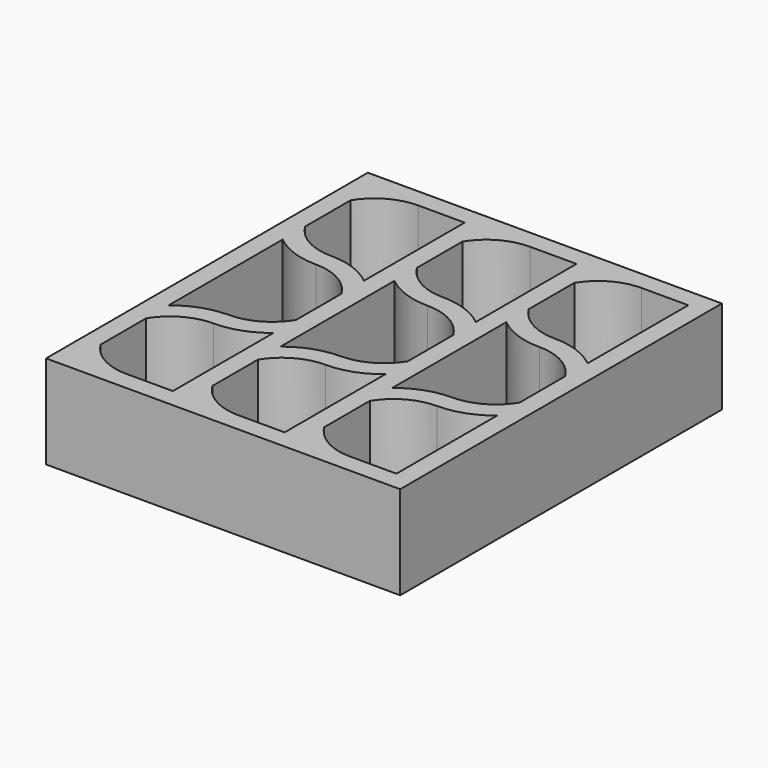
from build123d import *

# Parameters (mm, degrees)
F0_W     = 94.75
F0_H     = 107.602
F1_DEPTH = 25


with BuildPart() as f1:
    # F0 (on Top) → F1 (new body)
    with BuildSketch(Plane.XY):
        Rectangle(F0_W, F0_H)
        with BuildLine():
            Line((-17.458333, -48.801), (-29.916667, -48.801))
            ThreePointArc((-29.916667, -48.801), (-37.05864, -46.934949), (-42.375, -41.813791))
            Line((-42.375, -41.813791), (-42.375, -26.587542))
            ThreePointArc((-42.375, -26.587542), (-37.05864, -21.466384), (-29.916667, -19.600333))
            ThreePointArc((-29.916667, -19.600333), (-23.298881, -18.449336), (-17.458333, -15.131523))
            Line((-17.458333, -15.131523), (-17.458333, -48.801))
        make_face(mode=Mode.SUBTRACT)
        with BuildLine():
            Line((12.458333, -15.131523), (12.458333, -48.801))
            Line((12.458333, -48.801), (0, -48.801))
            ThreePointArc((0, -48.801), (-7.141974, -46.934949), (-12.458333, -41.813791))
            Line((-12.458333, -41.813791), (-12.458333, -26.587542))
            ThreePointArc((-12.458333, -26.587542), (-7.141974, -21.466384), (0, -19.600333))
            ThreePointArc((0, -19.600333), (6.617785, -18.449336), (12.458333, -15.131523))
        make_face(mode=Mode.SUBTRACT)
        with BuildLine():
            Line((42.375, -15.131523), (42.375, -48.801))
            Line((42.375, -48.801), (29.916667, -48.801))
            ThreePointArc((29.916667, -48.801), (22.774693, -46.934949), (17.458333, -41.813791))
            Line((17.458333, -41.813791), (17.458333, -26.587542))
            ThreePointArc((17.458333, -26.587542), (22.774693, -21.466384), (29.916667, -19.600333))
            ThreePointArc((29.916667, -19.600333), (36.534452, -18.449336), (42.375, -15.131523))
        make_face(mode=Mode.SUBTRACT)
        with BuildLine():
            ThreePointArc((-17.458333, -7.613124), (-22.774693, -12.734282), (-29.916667, -14.600333))
            ThreePointArc((-29.916667, -14.600333), (-36.534452, -15.751331), (-42.375, -19.069143))
            Line((-42.375, -19.069143), (-42.375, 19.069143))
            ThreePointArc((-42.375, 19.069143), (-36.534452, 15.751331), (-29.916667, 14.600333))
            ThreePointArc((-29.916667, 14.600333), (-22.774693, 12.734282), (-17.458333, 7.613124))
            Line((-17.458333, 7.613124), (-17.458333, -7.613124))
        make_face(mode=Mode.SUBTRACT)
        with BuildLine():
            ThreePointArc((-42.375, 41.813791), (-37.05864, 46.934949), (-29.916667, 48.801))
            Line((-29.916667, 48.801), (-17.458333, 48.801))
            Line((-17.458333, 48.801), (-17.458333, 15.131523))
            ThreePointArc((-17.458333, 15.131523), (-23.298881, 18.449336), (-29.916667, 19.600333))
            ThreePointArc((-29.916667, 19.600333), (-37.05864, 21.466384), (-42.375, 26.587542))
            Line((-42.375, 26.587542), (-42.375, 41.813791))
        make_face(mode=Mode.SUBTRACT)
        with BuildLine():
            ThreePointArc((12.458333, -7.613124), (7.141974, -12.734282), (0, -14.600333))
            ThreePointArc((0, -14.600333), (-6.617785, -15.751331), (-12.458333, -19.069143))
            Line((-12.458333, -19.069143), (-12.458333, 19.069143))
            ThreePointArc((-12.458333, 19.069143), (-6.617785, 15.751331), (0, 14.600333))
            ThreePointArc((0, 14.600333), (7.141974, 12.734282), (12.458333, 7.613124))
            Line((12.458333, 7.613124), (12.458333, -7.613124))
        make_face(mode=Mode.SUBTRACT)
        with BuildLine():
            ThreePointArc((42.375, -7.613124), (37.05864, -12.734282), (29.916667, -14.600333))
            ThreePointArc((29.916667, -14.600333), (23.298881, -15.751331), (17.458333, -19.069143))
            Line((17.458333, -19.069143), (17.458333, 19.069143))
            ThreePointArc((17.458333, 19.069143), (23.298881, 15.751331), (29.916667, 14.600333))
            ThreePointArc((29.916667, 14.600333), (37.05864, 12.734282), (42.375, 7.613124))
            Line((42.375, 7.613124), (42.375, -7.613124))
        make_face(mode=Mode.SUBTRACT)
        with BuildLine():
            Line((12.458333, 48.801), (12.458333, 15.131523))
            ThreePointArc((12.458333, 15.131523), (6.617785, 18.449336), (0, 19.600333))
            ThreePointArc((0, 19.600333), (-7.141974, 21.466384), (-12.458333, 26.587542))
            Line((-12.458333, 26.587542), (-12.458333, 41.813791))
            ThreePointArc((-12.458333, 41.813791), (-7.141974, 46.934949), (0, 48.801))
            Line((0, 48.801), (12.458333, 48.801))
        make_face(mode=Mode.SUBTRACT)
        with BuildLine():
            ThreePointArc((29.916667, 19.600333), (22.774693, 21.466384), (17.458333, 26.587542))
            Line((17.458333, 26.587542), (17.458333, 41.813791))
            ThreePointArc((17.458333, 41.813791), (22.774693, 46.934949), (29.916667, 48.801))
            Line((29.916667, 48.801), (42.375, 48.801))
            Line((42.375, 48.801), (42.375, 15.131523))
            ThreePointArc((42.375, 15.131523), (36.534452, 18.449336), (29.916667, 19.600333))
        make_face(mode=Mode.SUBTRACT)
    extrude(amount=F1_DEPTH)


solid = f1.part
